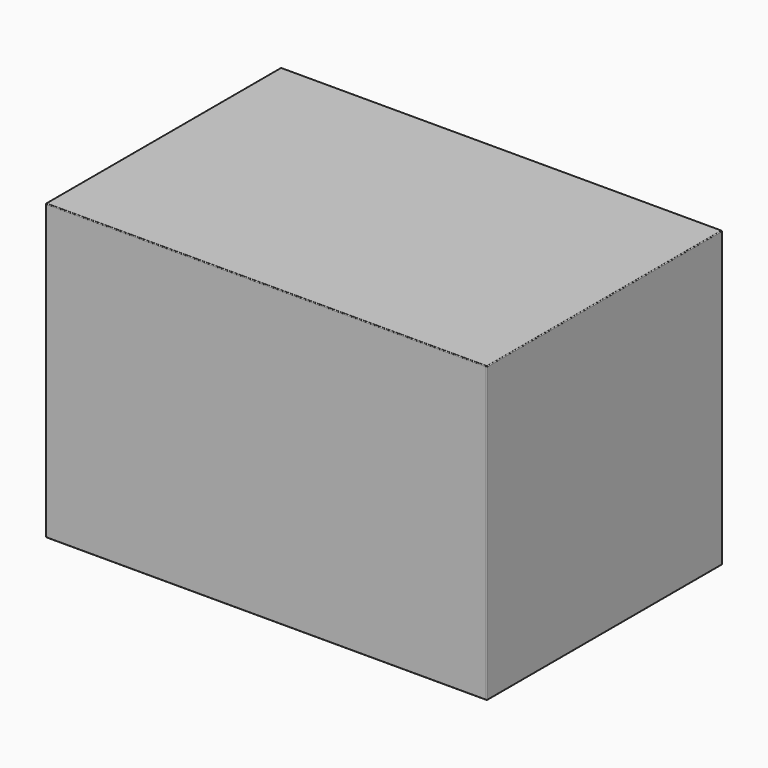
from build123d import *

# Parameters (mm, degrees)
SKETCH_W  = 600
SKETCH_H  = 400
PAD_DEPTH = 400
FILLET_R  = 1


with BuildPart() as part:
    # Sketch → Pad (new body)
    with BuildSketch(Plane.XY):
        with Locations((300, -200)):
            Rectangle(SKETCH_W, SKETCH_H)
    extrude(amount=PAD_DEPTH)

    # Fillet
    fillet_edges = [part.edges().sort_by_distance(p)[0] for p in [
        (0, 0, 200),
        (600, 0, 200),
        (300, 0, 0),
        (300, 0, 400),
        (600, -400, 200),
        (600, -200, 0),
        (600, -200, 400),
        (0, -400, 200),
        (300, -400, 0),
        (300, -400, 400),
        (0, -200, 0),
        (0, -200, 400),
    ]]
    fillet(fillet_edges, radius=FILLET_R)


solid = part.part
